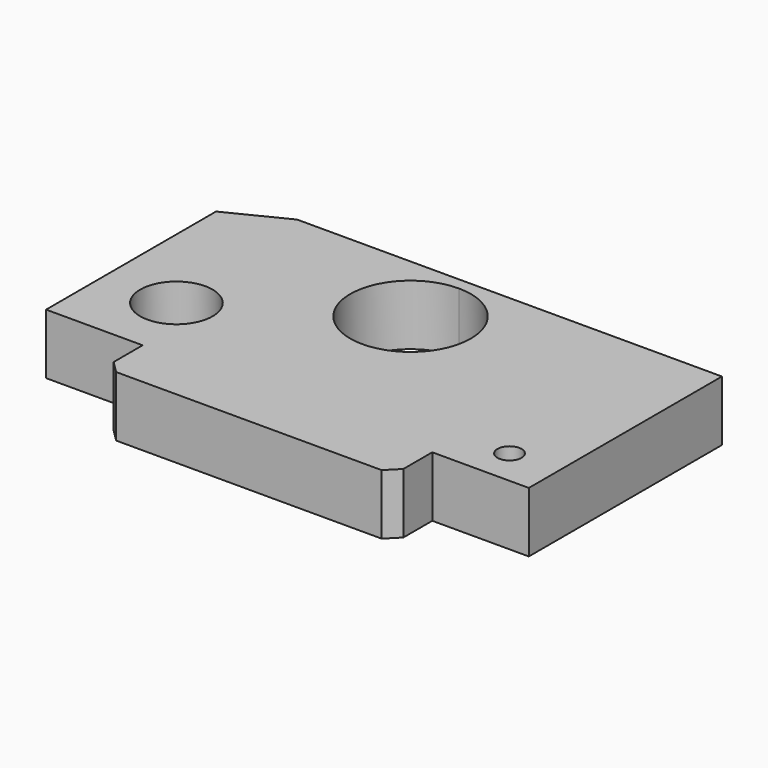
from build123d import *

# Parameters (mm, degrees)
F1_DEPTH = 25
F2_SIZE2 = 5
F2_SIZE  = 5


with BuildPart() as f1:
    # F0 (on Top) → F1 (new body)
    with BuildSketch(Plane.XY):
        with BuildLine():
            ThreePointArc((116.817293, -37.721787), (108.281759, -34.186253), (111.817293, -42.721787))
            ThreePointArc((111.817293, -42.721787), (115.352827, -41.257321), (116.817293, -37.721787))
        make_face()
        with BuildLine():
            ThreePointArc((51.817293, 17.278213), (44.494963, 34.955882), (26.817293, 42.278213))
            ThreePointArc((26.817293, 42.278213), (9.139624, -0.399457), (51.817293, 17.278213))
        make_face()
        with BuildLine():
            ThreePointArc((-23.182707, -22.721787), (-38.182707, -7.721787), (-53.182707, -22.721787))
            ThreePointArc((-53.182707, -22.721787), (-38.182707, -37.721787), (-23.182707, -22.721787))
        make_face()
        Polygon((-68.182707, -22.721787), (-68.182707, -52.721787), (-28.182707, -52.721787), (-28.182707, -72.721787), (91.817293, -72.721787), (91.817293, -52.721787), (111.817293, -52.721787), (131.817293, -52.721787), (131.817293, 47.278213), (26.817293, 47.278213), (-44.182707, 47.278213), (-68.182707, 35.278213), align=None)
        with BuildLine():
            ThreePointArc((-23.182707, -22.721787), (-38.182707, -37.721787), (-53.182707, -22.721787))
            ThreePointArc((-53.182707, -22.721787), (-38.182707, -7.721787), (-23.182707, -22.721787))
        make_face(mode=Mode.SUBTRACT)
        with BuildLine():
            ThreePointArc((116.817293, -37.721787), (115.352827, -41.257321), (111.817293, -42.721787))
            ThreePointArc((111.817293, -42.721787), (108.281759, -34.186253), (116.817293, -37.721787))
        make_face(mode=Mode.SUBTRACT)
        with BuildLine():
            ThreePointArc((51.817293, 17.278213), (9.139624, -0.399457), (26.817293, 42.278213))
            ThreePointArc((26.817293, 42.278213), (44.494963, 34.955882), (51.817293, 17.278213))
        make_face(mode=Mode.SUBTRACT)
    extrude(amount=F1_DEPTH)

    # F2
    f2_edges = [f1.edges().sort_by_distance(p)[0] for p in [
        (-28.182707, -72.721787, 12.5),
        (91.817293, -72.721787, 12.5),
    ]]
    chamfer(f2_edges, length=F2_SIZE, length2=F2_SIZE2)


solid = f1.part
